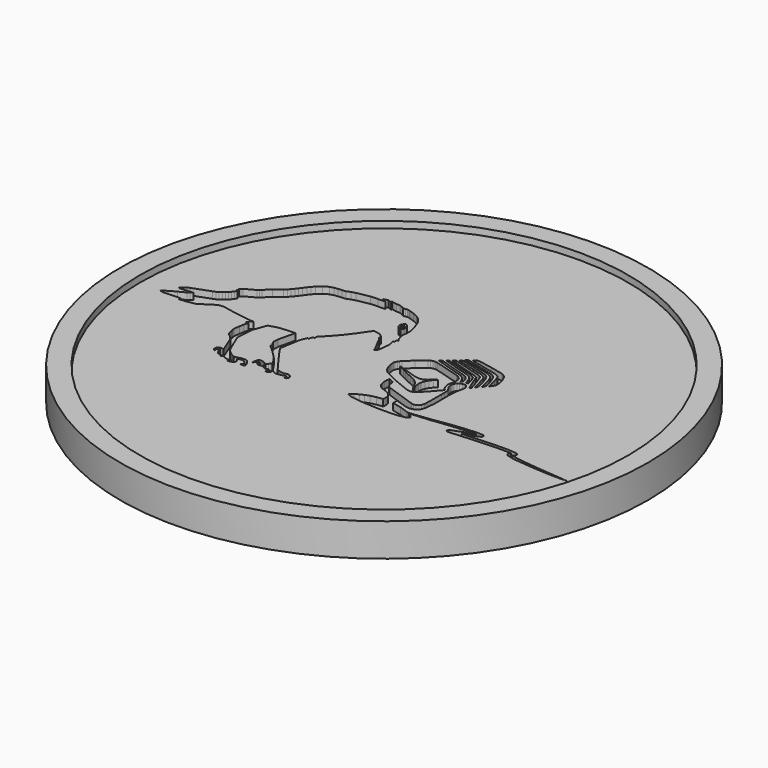
from build123d import *

# Parameters (mm, degrees)
F0_R     = 40
F1_DEPTH = 4
F2_R     = 40
F2_R_2   = 37
F3_DEPTH = 1
F5_DEPTH = 2


with BuildPart() as f1:
    # F0 (on Top) → F1 (new body)
    with BuildSketch(Plane.XY):
        Circle(F0_R)
    extrude(amount=F1_DEPTH)

    # F2 (on face) → F3 (join)
    with BuildSketch(Plane.XY.offset(4)):
        Circle(F2_R)
        Circle(F2_R_2, mode=Mode.SUBTRACT)
    extrude(amount=F3_DEPTH)

    # F4 (on face) → F5 (cut)
    with BuildSketch(Plane.XY.offset(5)):
        Polygon((-11.549462, 14.758001), (-11.878504, 14.638366), (-11.576364, 14.483354), (-11.269413, 14.337224), (-12.358524, 14.301478), (-13.447451, 14.264141), (-15.345034, 13.897132), (-15.972627, 13.728503), (-16.568286, 13.473728), (-17.133231, 13.423106), (-17.701396, 13.378553), (-18.263492, 13.300067), (-18.809972, 13.146869), (-19.509835, 12.706406), (-20.133395, 12.160555), (-20.487342, 11.789549), (-20.802582, 11.385425), (-21.101281, 10.967831), (-21.406678, 10.555492), (-21.68051, 10.200731), (-21.966146, 9.853593), (-22.280794, 9.536022), (-22.641513, 9.27022), (-23.621832, 8.429037), (-24.560595, 7.5406), (-24.765969, 7.334819), (-24.994841, 7.158382), (-26.460841, 6.358533), (-26.661183, 6.201783), (-26.808719, 5.991561), (-26.79166, 5.798621), (-26.827184, 5.608307), (-26.613373, 5.532634), (-26.835251, 5.243519), (-27.045029, 4.943376), (-27.266093, 4.652263), (-27.521423, 4.39068), (-27.843657, 4.173871), (-28.16626, 3.95525), (-28.501742, 3.760866), (-28.862312, 3.616142), (-31.448531, 2.662725), (-31.628612, 2.592676), (-31.807891, 2.519592), (-31.979746, 2.432262), (-32.136338, 2.319029), (-32.272454, 2.200393), (-32.402747, 2.073468), (-32.514574, 1.932333), (-32.595277, 1.77055), (-31.519198, 1.816695), (-30.445321, 1.928337), (-30.750496, 1.684219), (-31.07754, 1.46841), (-32.081531, 0.963079), (-33.06968, 0.42807), (-33.842612, -0.111564), (-33.302563, -0.239636), (-32.741636, -0.22761), (-31.715946, -0.162556), (-30.689438, -0.137689), (-30.812922, -0.467139), (-29.621012, -0.353499), (-28.439908, -0.144535), (-27.328704, 0.564986), (-26.22072, 1.280724), (-25.986224, 1.320652), (-25.746288, 1.331087), (-25.503206, 1.349737), (-25.260051, 1.349515), (-23.19062, 0.941801), (-21.105906, 0.624008), (-20.703151, 0.600695), (-20.299471, 0.600695), (-20.626293, 0.234093), (-20.958962, -0.127439), (-20.510248, -0.05195), (-20.675472, -0.728094), (-20.80014, -1.412341), (-20.91019, -2.330197), (-20.869005, -2.634964), (-20.756363, -2.923228), (-20.731089, -3.080053), (-20.720432, -3.239837), (-20.704964, -3.399067), (-20.664815, -3.554041), (-20.616672, -3.654434), (-20.537742, -3.731921), (-20.446415, -3.79938), (-20.360047, -3.87065), (-19.972019, -4.228001), (-19.611856, -4.612291), (-18.595199, -7.183408), (-18.878652, -7.106532), (-19.168766, -7.077594), (-19.325184, -7.158312), (-19.450406, -7.281781), (-19.528115, -7.437169), (-19.541955, -7.614239), (-19.530558, -7.769228), (-19.45925, -7.900726), (-19.348052, -8.007536), (-19.216502, -8.088442), (-19.269344, -7.859167), (-19.265903, -7.62749), (-19.218944, -7.57349), (-19.155519, -7.564053), (-19.088245, -7.586337), (-19.030629, -7.62709), (-18.870622, -7.797536), (-18.73452, -7.987657), (-18.614256, -8.189423), (-18.501208, -8.394801), (-18.165135, -8.327945), (-18.095899, -8.433348), (-18.018412, -8.534533), (-17.927419, -8.621663), (-17.817664, -8.6847), (-17.728113, -8.684497), (-17.64378, -8.653987), (-17.562482, -8.610018), (-17.481923, -8.569062), (-17.079205, -8.756574), (-16.657245, -8.892287), (-16.47633, -8.82343), (-16.287016, -8.784479), (-16.259707, -8.905135), (-16.300486, -9.015153), (-16.37838, -9.114731), (-16.462898, -9.204271), (-16.279393, -9.178975), (-16.094483, -9.153882), (-15.914605, -9.111719), (-15.745347, -9.035231), (-15.664862, -8.986041), (-15.587153, -8.930835), (-15.525763, -8.862377), (-15.49405, -8.773037), (-15.476954, -8.598976), (-15.527761, -8.43736), (-15.625934, -8.29362), (-15.751563, -8.173763), (-15.651393, -8.06174), (-15.521137, -7.997293), (-15.37497, -7.964167), (-15.226842, -7.946704), (-15.133443, -7.935658), (-15.037491, -7.92502), (-14.947126, -7.936062), (-14.870046, -7.990266), (-14.716071, -8.13281), (-14.559284, -8.279362), (-14.429805, -8.443384), (-14.357684, -8.638926), (-14.437391, -8.72666), (-14.54241, -8.784075), (-14.657419, -8.828647), (-14.766841, -8.87743), (-14.460112, -8.945692), (-14.145908, -8.939668), (-14.069013, -8.904735), (-14.016023, -8.841695), (-13.993154, -8.762598), (-14.007179, -8.679483), (-14.21296, -8.20649), (-14.518505, -7.791919), (-14.648649, -7.678885), (-14.803808, -7.611027), (-15.23243, -7.618461), (-15.658053, -7.681498), (-15.877489, -7.737911), (-16.094113, -7.813396), (-16.313104, -7.867001), (-16.539978, -7.857165), (-16.978479, -7.614842), (-17.382789, -7.317116), (-17.552232, -7.175982), (-17.716235, -7.027602), (-17.859812, -6.861785), (-17.967827, -6.669474), (-18.524891, -5.421761), (-19.055755, -4.162578), (-19.107154, -4.0405), (-19.158331, -3.917831), (-19.193041, -3.79135), (-19.195039, -3.659281), (-19.147304, -2.67974), (-19.111521, -1.942502), (-19.050093, -1.208336), (-18.370139, 0.682623), (-18.336021, 0.774764), (-18.267933, 0.837782), (-17.158357, 1.16564), (-16.729736, 1.249788), (-16.292234, 1.27706), (-14.529976, 1.387703), (-15.14769, -1.205709), (-15.158532, -2.108171), (-15.052144, -2.281203), (-14.923665, -2.442838), (-14.851396, -2.584379), (-14.830525, -2.744164), (-14.817833, -2.906576), (-14.769875, -3.055926), (-13.651641, -4.070585), (-12.594427, -5.1473), (-12.352308, -5.542987), (-12.068632, -5.910367), (-11.969461, -6.046098), (-11.875322, -6.19826), (-11.834913, -6.356676), (-11.897376, -6.510651), (-12.13265, -6.776046), (-12.391495, -7.017388), (-12.479196, -7.013762), (-12.650674, -6.873034), (-12.840765, -6.759394), (-13.046546, -6.679502), (-13.265205, -6.640758), (-13.395682, -6.645976), (-13.524161, -6.680094), (-13.632991, -6.748774), (-13.704409, -6.858566), (-13.804839, -7.259297), (-13.823711, -7.673268), (-13.628957, -7.426131), (-13.448672, -7.169154), (-13.39065, -7.119372), (-13.317159, -7.101684), (-13.237637, -7.099686), (-13.161186, -7.097688), (-13.194305, -7.262709), (-13.208551, -7.437972), (-13.169179, -7.594967), (-13.040922, -7.705591), (-12.608452, -7.71663), (-12.18527, -7.614642), (-12.070631, -7.748953), (-11.940968, -7.872422), (-11.790767, -7.959552), (-11.615329, -7.985651), (-11.502873, -7.975612), (-11.397707, -7.938271), (-11.2965, -7.887075), (-11.195922, -7.83608), (-11.133496, -7.975816), (-11.100747, -8.124577), (-11.164209, -8.288798), (-11.235443, -8.450818), (-11.081283, -8.492774), (-10.924865, -8.481328), (-10.785174, -8.415483), (-10.68097, -8.29362), (-10.612068, -8.165333), (-10.593825, -8.025601), (-10.611328, -7.881858), (-10.648628, -7.742126), (-10.425418, -7.923414), (-10.200912, -8.102493), (-9.879715, -8.179184), (-9.55267, -8.161315), (-9.225663, -8.092657), (-8.904243, -8.017571), (-8.769326, -7.985851), (-8.62882, -7.959952), (-8.492644, -7.966979), (-8.370197, -8.033635), (-8.374045, -8.222146), (-8.415971, -8.411864), (-8.09074, -8.317306), (-8.035159, -8.171957), (-7.990384, -8.023795), (-8.038527, -7.838692), (-8.124895, -7.663632), (-8.254336, -7.526309), (-8.431846, -7.455442), (-8.625786, -7.4189), (-8.81991, -7.433757), (-9.012407, -7.478326), (-9.201758, -7.530324), (-9.623127, -7.492779), (-10.029323, -7.36329), (-10.13412, -7.318922), (-10.239323, -7.272145), (-10.336052, -7.213319), (-10.415131, -7.13262), (-11.605486, -5.518491), (-12.780966, -3.894148), (-13.172028, -3.345633), (-13.530785, -2.776284), (-13.016869, 0.320239), (-12.802244, 0.820945), (-12.582993, 1.320837), (-12.391828, 1.218668), (-12.283443, 1.819322), (-11.965834, 1.81836), (-11.966241, 2.243947), (-10.908435, 3.32403), (-9.916645, 4.463541), (-8.870939, 5.830741), (-8.354359, 6.597063), (-7.818314, 7.34951), (-7.593661, 7.635183), (-6.601685, 7.420003), (-6.330888, 7.233279), (-6.074891, 7.023686), (-6.070895, 6.578968), (-6.024122, 6.522389), (-5.958069, 6.482609), (-5.892793, 6.441497), (-5.847833, 6.379663), (-5.497106, 5.679541), (-5.129727, 4.988337), (-4.956472, 4.693227), (-4.808529, 4.385462), (-4.71217, 4.293728), (-4.617994, 4.19896), (-4.597493, 4.016048), (-4.595902, 3.830582), (-4.460577, 3.91547), (-4.333282, 4.015641), (-4.235295, 4.138717), (-4.187707, 4.291878), (-4.07773, 5.070486), (-4.006867, 5.852869), (-4.056453, 6.357978), (-4.188743, 6.849396), (-4.008865, 6.945015), (-4.006867, 7.458524), (-3.782843, 7.400317), (-4.042169, 7.878894), (-4.10763, 8.145325), (-4.161027, 8.414939), (-4.214868, 8.512556), (-4.273853, 8.609878), (-4.313855, 8.712046), (-4.309636, 8.823911), (-4.206024, 9.643372), (-4.223268, 10.470752), (-4.36703, 10.987517), (-4.531662, 11.498658), (-4.66214, 11.886094), (-4.80209, 12.271975), (-4.976307, 12.640797), (-5.210026, 12.976242), (-5.61378, 13.399423), (-6.082144, 13.746561), (-6.786411, 14.035084), (-7.50733, 14.280608), (-7.733611, 14.3521), (-7.966886, 14.379779), (-8.245566, 14.332821), (-8.523395, 14.280608), (-8.637997, 14.344218), (-8.742423, 14.427182), (-9.259559, 14.635109), (-9.818103, 14.665046), (-10.265374, 14.715446), (-10.696845, 14.855174), (-10.599634, 14.60484), (-10.907621, 14.721662), (-11.212389, 14.845923), align=None)
        Polygon((-6.133728, 10.401887), (-6.20041, 10.631573), (-6.147346, 10.821886), (-6.06046, 10.999766), (-5.956071, 11.170171), (-5.850867, 11.338245), (-5.668991, 11.271378), (-5.497735, 11.178238), (-5.349347, 11.055346), (-5.235115, 10.898337), (-5.173281, 10.732557), (-5.155593, 10.556898), (-5.174909, 10.37998), (-5.223274, 10.209538), (-5.279705, 10.105778), (-5.363372, 10.019447), (-5.467798, 9.967826), (-5.586212, 9.967419), (-5.807054, 10.059375), (-5.995998, 10.207762), align=None, mode=Mode.SUBTRACT)
        Polygon((-5.798654, 10.700031), (-5.838989, 10.613478), (-5.856862, 10.516119), (-5.862894, 10.413543), (-5.840025, 10.319811), (-5.770753, 10.248726), (-5.626436, 10.237254), (-5.493701, 10.293908), (-5.390718, 10.399111), (-5.335878, 10.5334), (-5.330697, 10.634163), (-5.382281, 10.715498), (-5.462988, 10.781921), (-5.54547, 10.838723), (-5.632024, 10.796575), (-5.72298, 10.755611), align=None)
        Polygon((2.354401, 5.857236), (2.112393, 5.692048), (0.91101, 4.713135), (-0.210888, 3.645449), (-0.388916, 3.436079), (-0.556767, 3.215237), (-0.690871, 2.976337), (-0.766989, 2.712718), (-0.70793, 2.232291), (-0.603319, 1.758339), (-0.464626, 1.321059), (-0.264063, 0.905463), (0.011397, 0.542117), (0.374558, 0.261032), (2.588269, -0.798772), (4.861815, -1.725324), (5.351383, -1.798185), (5.83688, -1.681548), (6.067417, -1.531976), (6.271681, -1.344475), (7.353317, -0.182465), (8.40128, 1.010481), (8.154831, 1.276875), (7.961669, 1.583012), (7.842885, 1.922527), (7.80033, 2.278842), (7.822903, 2.639042), (7.898391, 2.990176), (8.021616, 3.562745), (7.950197, 4.13831), (7.80551, 4.393492), (7.598286, 4.598274), (7.348137, 4.754432), (7.076525, 4.863521), (3.207351, 5.973059), (2.916497, 6.00862), (2.627123, 5.966287), align=None)
        Polygon((4.437005, 1.455569), (4.827401, 1.595298), (5.163401, 1.818138), (5.463506, 2.089158), (5.765461, 2.35718), (6.107011, 2.570769), (5.741778, 2.175082), (5.41466, 1.744462), (5.15563, 1.274507), (4.995401, 0.75974), (4.957286, 0.277906), (5.023524, -0.198525), (5.175242, -0.658267), (5.393198, -1.089515), (5.217427, -1.066017), (5.003542, -0.700821), (4.822221, -0.319566), (4.530996, 0.217034), (4.103966, 0.652094), (3.565923, 0.988575), (2.988285, 1.25038), (2.401397, 1.495275), (1.835304, 1.780394), (1.269323, 2.070508), (0.68817, 2.32865), (0.552623, 2.392112), (0.43839, 2.484845), (0.794964, 2.390262), (2.000529, 1.984361), (3.216602, 1.610729), (3.613289, 1.4925), (4.026257, 1.431036), align=None, mode=Mode.SUBTRACT)
        Polygon((8.446426, 3.21742), (8.254003, 2.942774), (8.164823, 2.658914), (8.153721, 2.361806), (8.212188, 2.068065), (8.330972, 1.794677), (8.450126, 1.607953), (8.580751, 1.426484), (8.693615, 1.236504), (8.757632, 1.024321), (8.779465, 0.458191), (8.786496, -0.108937), (8.760592, -2.775877), (8.73691, -3.243686), (8.617756, -3.691734), (8.417932, -3.950728), (8.137439, -4.113399), (7.815872, -4.174382), (7.491714, -4.129015), (3.022329, -2.588191), (2.829167, -2.494459), (2.664498, -2.35832), (2.527951, -2.191467), (2.419529, -2.006335), (2.364762, -1.813616), (2.356991, -1.610647), (2.34885, -1.408715), (2.294454, -1.219585), (1.903984, -1.016987), (1.5006, -0.840365), (1.449238, -1.288894), (1.445019, -1.742383), (1.507668, -2.188433), (1.657424, -2.614871), (1.818245, -2.868869), (2.030983, -3.079831), (2.282243, -3.244463), (2.559775, -3.360101), (2.904656, -3.476332), (3.242505, -3.616875), (3.557412, -3.798196), (3.832725, -4.037059), (4.026257, -4.324175), (4.13394, -4.65159), (4.163913, -4.998099), (4.123579, -5.342054), (3.233254, -5.44463), (2.362912, -5.659033), (1.757188, -5.880467), (1.173371, -6.156704), (0.623523, -6.493592), (0.12019, -6.896717), (0.246893, -6.997702), (0.389212, -7.07419), (0.540966, -7.132028), (0.696792, -7.177784), (1.726919, -7.371117), (2.7707, -7.481537), (5.030925, -7.613839), (7.295961, -7.606013), (8.181845, -7.529321), (9.055517, -7.368511), (9.192803, -7.322334), (9.326759, -7.264315), (9.447023, -7.185418), (9.542864, -7.076595), (9.554336, -6.961771), (9.514741, -6.856382), (9.443323, -6.762798), (9.360063, -6.684534), (9.227217, -6.584956), (9.08327, -6.501807), (8.941174, -6.417104), (8.813509, -6.313899), (11.821221, -6.074814), (13.131175, -5.913808), (14.441869, -5.759426), (16.75094, -5.564487), (17.552824, -5.52393), (18.355078, -5.522894), (16.845301, -6.027818), (15.346995, -6.565676), (15.242273, -6.617445), (15.143101, -6.685533), (15.073903, -6.775047), (15.058731, -6.8915), (15.082044, -6.997887), (15.153462, -7.07641), (15.253744, -7.120778), (15.363277, -7.125996), (18.830954, -6.877031), (22.303811, -6.714212), (23.461677, -6.693748), (24.618802, -6.73993), (24.546644, -6.804576), (24.477446, -6.874441), (24.42638, -6.954555), (24.412688, -7.050322), (24.434151, -7.195453), (24.521111, -7.30788), (24.644705, -7.391798), (24.777921, -7.451827), (25.489145, -7.636123), (26.21591, -7.752365), (28.983464, -8.020184), (31.7599, -8.177378), (33.012867, -8.176975), (34.265834, -8.153888), (32.230225, -7.960155), (30.192396, -7.788907), (28.275201, -7.600388), (26.365037, -7.356063), (25.700809, -7.244036), (25.051753, -7.074597), (25.176088, -6.992299), (25.303753, -6.901121), (25.394783, -6.787702), (25.409585, -6.638131), (25.36481, -6.501622), (25.261568, -6.410665), (25.127612, -6.354049), (24.989216, -6.320523), (23.932372, -6.228789), (22.870717, -6.224977), (21.381293, -6.267125), (19.14142, -6.368517), (16.903768, -6.505618), (17.611291, -6.240038), (18.329915, -6.002322), (18.766196, -5.857968), (19.190266, -5.681088), (19.282407, -5.613037), (19.347164, -5.516122), (19.368257, -5.406071), (19.329032, -5.29887), (19.215059, -5.19226), (19.062971, -5.1473), (18.177827, -5.115735), (16.2388, -5.24884), (14.307913, -5.469904), (13.035334, -5.661808), (11.763865, -5.860596), (8.9915, -6.179795), (8.849403, -6.193857), (8.705826, -6.213543), (8.564469, -6.214727), (8.427553, -6.173985), (7.078745, -5.693373), (5.679241, -5.391825), (5.682571, -4.625502), (7.489123, -5.213945), (7.957598, -5.273596), (8.426443, -5.202696), (8.856064, -5.006721), (9.208345, -4.69174), (9.391146, -4.279585), (9.485878, -3.835496), (9.624644, -2.387405), (9.620573, -0.932284), (9.608732, -0.047732), (9.625384, 0.838411), (9.710494, 1.717375), (9.903287, 2.580649), (9.942511, 2.775181), (9.922529, 2.97012), (9.857031, 3.158028), (9.76119, 3.330875), (9.685331, 3.433636), (9.59171, 3.521596), (9.481067, 3.580433), (9.353772, 3.595678), (9.021843, 3.550718), (8.711007, 3.422239), align=None)
        Polygon((3.441959, 6.734387), (3.058594, 6.466956), (6.428209, 5.440049), (6.820825, 5.332477), (7.214181, 5.218652), (7.590145, 5.066046), (7.930215, 4.841393), (8.269175, 4.420801), (8.456047, 3.910659), (8.541897, 3.924943), (8.627747, 3.938968), (8.686584, 4.15881), (8.672152, 4.381059), (8.605544, 4.598459), (8.508963, 4.803463), (8.363906, 5.010428), (8.179994, 5.183276), (7.966479, 5.3186), (7.731872, 5.411925), align=None)
        Polygon((3.853447, 7.094957), (3.769077, 7.023686), (7.872488, 5.761875), (8.170003, 5.643832), (8.444575, 5.477608), (8.680293, 5.262576), (8.861984, 4.998217), (9.046636, 4.495661), (9.201684, 3.981153), (9.347481, 4.028333), (9.476256, 4.103378), (9.229808, 5.112819), (9.151728, 5.303947), (9.050707, 5.483825), (8.923412, 5.644868), (8.766513, 5.778749), (8.462338, 5.923695), (8.13966, 6.023496), (4.143561, 7.22203), (4.034028, 7.226433), (3.939297, 7.173258), align=None)
        Polygon((4.667542, 7.757038), (4.294539, 7.471809), (8.897879, 6.063646), (9.029984, 6.013616), (9.148768, 5.936943), (9.246459, 5.835588), (9.316028, 5.712105), (10.308484, 3.208021), (10.517929, 3.443887), (10.117542, 4.740408), (9.67608, 6.022867), (9.568397, 6.199156), (9.413719, 6.334259), (9.231658, 6.437464), (9.041825, 6.518355), align=None)
        Polygon((5.23963, 8.266366), (4.931383, 7.98369), (9.176891, 6.854022), (9.41927, 6.774721), (9.643886, 6.654272), (9.840009, 6.493081), (9.996907, 6.291297), (10.152696, 5.942605), (10.255938, 5.572746), (10.765488, 3.728191), (10.835056, 3.851008), (10.899443, 3.978118), (10.941258, 4.111445), (10.943108, 4.252987), (10.705911, 5.225276), (10.399885, 6.179284), (10.27222, 6.484792), (10.081647, 6.758698), (9.832978, 6.976099), (9.531023, 7.112016), (7.392172, 7.714261), align=None)
        Polygon((5.814307, 8.744795), (5.486819, 8.493055), (9.351182, 7.539009), (9.84815, 7.401686), (10.299233, 7.157161), (10.646704, 6.757033), (10.833946, 6.259399), (11.065963, 5.322634), (11.323513, 4.392678), (11.411583, 4.511351), (11.497804, 4.634797), (11.55553, 4.768124), (11.557751, 4.915882), (11.333504, 5.824339), (11.033399, 6.709668), (10.861699, 7.033308), (10.629312, 7.31961), (10.340678, 7.54282), (10.000238, 7.67796), align=None)
        Polygon((6.341249, 9.151954), (6.143646, 9.004381), (10.524959, 7.944576), (10.717752, 7.872677), (10.895003, 7.768695), (11.051161, 7.634776), (11.178826, 7.4734), (11.374949, 7.030717), (11.495953, 6.559134), (11.883389, 5.015646), (12.093203, 5.269015), (12.266754, 5.554318), (12.370736, 5.864896), (12.372586, 6.193494), (12.210137, 7.031309), (11.887089, 7.818725), (11.71946, 8.042527), (11.523707, 8.245274), (11.29724, 8.408315), (11.03821, 8.513518), (9.048116, 8.974074), (7.040261, 9.348262), (6.793442, 9.345857), (6.558834, 9.27318), align=None)
    extrude(amount=-F5_DEPTH, mode=Mode.SUBTRACT)


solid = f1.part
